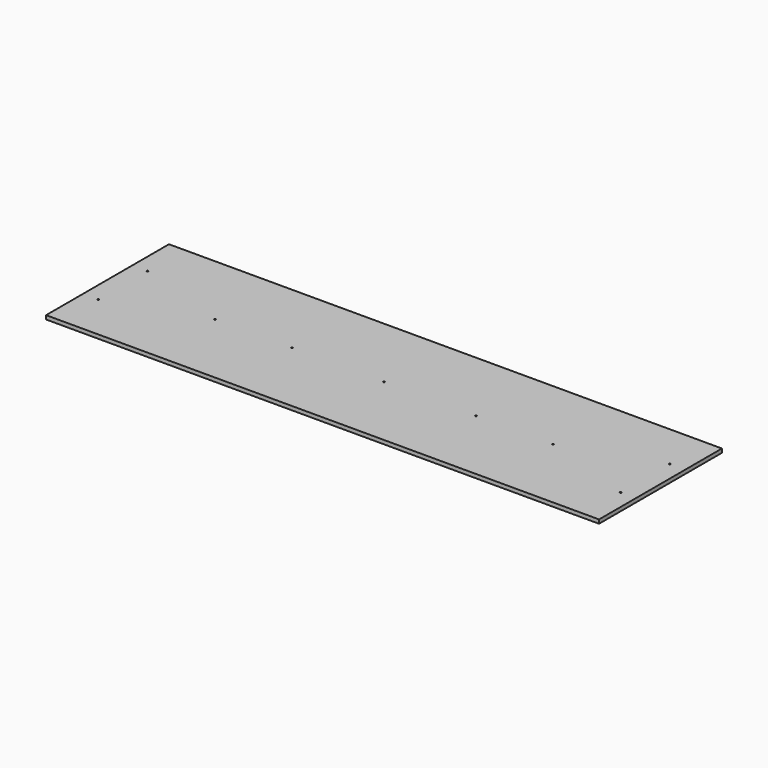
from build123d import *

# Parameters (mm, degrees)
F0_R     = 1.27
F0_W     = 812.8
F0_H     = 50.8
F1_DEPTH = 6.35


with BuildPart() as f1:
    # F0 (on Top) → F1 (new body)
    with BuildSketch(Plane.XY):
        Polygon((-406.4, -25.4), (-406.4, -127), (-381, -127), (381, -127), (406.4, -127), (406.4, -25.4), align=None)
        Polygon((-457.2, 127), (-457.2, -127), (-406.4, -127), (-406.4, -25.4), (-406.4, 25.4), (-406.4, 76.2), (-406.4, 127), align=None)
        with Locations((-431.8, -50.8)):
            Circle(F0_R, mode=Mode.SUBTRACT)
        with Locations((-431.8, 50.8)):
            Circle(F0_R, mode=Mode.SUBTRACT)
        Polygon((-381, 127), (-406.4, 127), (-406.4, 76.2), (406.4, 76.2), (406.4, 127), (381, 127), align=None)
        Polygon((406.4, 25.4), (406.4, -25.4), (406.4, -127), (457.2, -127), (457.2, 127), (406.4, 127), (406.4, 76.2), align=None)
        with Locations((431.8, -50.8)):
            Circle(F0_R, mode=Mode.SUBTRACT)
        with Locations((431.8, 50.8)):
            Circle(F0_R, mode=Mode.SUBTRACT)
        with Locations((0, 50.8)):
            Rectangle(F0_W, F0_H)
        Rectangle(F0_W, F0_H)
        with Locations((-279.4, 0)):
            Circle(F0_R, mode=Mode.SUBTRACT)
        with Locations((-152.4, 0)):
            Circle(F0_R, mode=Mode.SUBTRACT)
        Circle(F0_R, mode=Mode.SUBTRACT)
        with Locations((152.4, 0)):
            Circle(F0_R, mode=Mode.SUBTRACT)
        with Locations((279.4, 0)):
            Circle(F0_R, mode=Mode.SUBTRACT)
        Polygon((-457.2, 127), (-457.2, -127), (-406.4, -127), (-406.4, -25.4), (-406.4, 25.4), (-406.4, 76.2), (-406.4, 127), align=None)
        with Locations((-431.8, -50.8)):
            Circle(F0_R, mode=Mode.SUBTRACT)
        with Locations((-431.8, 50.8)):
            Circle(F0_R, mode=Mode.SUBTRACT)
        Polygon((406.4, 25.4), (406.4, -25.4), (406.4, -127), (457.2, -127), (457.2, 127), (406.4, 127), (406.4, 76.2), align=None)
        with Locations((431.8, -50.8)):
            Circle(F0_R, mode=Mode.SUBTRACT)
        with Locations((431.8, 50.8)):
            Circle(F0_R, mode=Mode.SUBTRACT)
    extrude(amount=F1_DEPTH)


solid = f1.part
